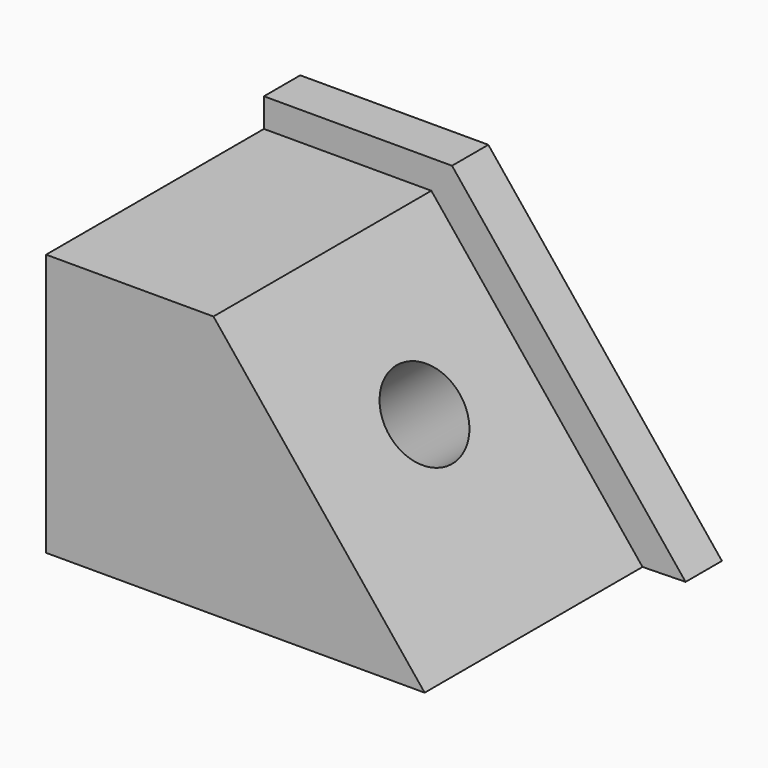
from build123d import *

# Parameters (mm, degrees)
F1_DEPTH = 76.2
F2_DEPTH = 12.7
F3_R     = 12.3726217029
F4_DEPTH = 61.976


with BuildPart() as f1:
    # F0 (on Front) → F1 (new body)
    with BuildSketch(Plane.XZ):
        Polygon((0, 43.8915863633), (-46.8400269747, 43.8915863633), (-46.8400269747, -29.5672435313), (59.0905994177, -29.5672435313), align=None)
    extrude(amount=F1_DEPTH)

    # F0 (on Front) → F2 (join)
    with BuildSketch(Plane.XZ):
        Polygon((-46.8400269747, 51.9304850427), (-46.8400269747, 43.8915863633), (0, 43.8915863633), (59.0905994177, -29.5672435313), (71.1518924552, -29.3272192482), (5.7878448555, 51.9304850427), align=None)
    extrude(amount=-F2_DEPTH)

    # F3 (on face) → F4 (cut)
    with BuildSketch(Plane(origin=(21.4360413899, 0, 17.2432440958), x_dir=(0, 1, 0), z_dir=(0.7791919552, 0, 0.6267853675))):
        with Locations((-34.9891483784, -7.3997466825)):
            Circle(F3_R)
    extrude(amount=-F4_DEPTH, mode=Mode.SUBTRACT)


solid = f1.part
